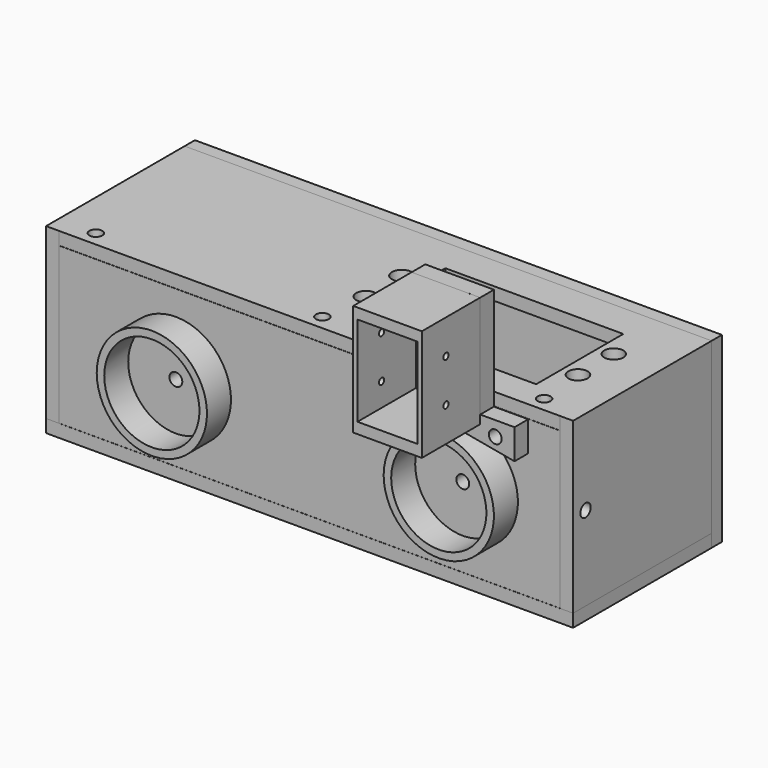
from build123d import *

# Parameters (mm, degrees)
SKETCH001_W             = 116.843163
SKETCH001_H             = 36.45658
PAD001_DEPTH            = 7
SKETCH003_R             = 12.85
SKETCH003_R_2           = 11.1
PAD002_DEPTH            = 7
SKETCH004_R             = 12.85
SKETCH004_R_2           = 11.1
PAD003_DEPTH            = 7
SKETCH032_R             = 1.25
HOLE_DEPTH              = 7
HOLE_TIPS_R             = 1.25
SKETCH033_R             = 1.25
HOLE012_DEPTH           = 7
HOLE012_TIPS_R          = 1.25
SKETCH034_R             = 1.25
HOLE013_DEPTH           = 7
HOLE013_TIPS_R          = 1.25
SKETCH035_R             = 1.25
HOLE014_DEPTH           = 7
HOLE014_TIPS_R          = 1.25
SKETCH036_R             = 1.5
HOLE015_DEPTH           = 25
SKETCH037_R             = 1.5
HOLE016_DEPTH           = 25
SKETCH038_R             = 1.1
HOLE017_DEPTH           = 8
HOLE017_TIPS_R          = 1.1
SKETCH043_R             = 1.1
HOLE019_DEPTH           = 5
HOLE019_TIPS_R          = 1.1
SKETCH_R                = 2.249595
SKETCH_R_2              = 2.22848
SKETCH_R_3              = 2.258087
SKETCH_R_4              = 2.309799
SKETCH_R_5              = 1.5
SKETCH_W                = 41.49
SKETCH_H                = 25.39
PAD_DEPTH               = 3
SKETCH009_W             = 40.385647
SKETCH009_H             = 39.5
SKETCH009_R             = 1.5
PAD004_DEPTH            = 3
SKETCH010_W             = 40.385768
SKETCH010_H             = 39.5
SKETCH010_R             = 1.5
PAD008_DEPTH            = 3
POCKET_DEPTH            = 5
SKETCH023_W             = 122.896782
SKETCH023_H             = 40.385559
PAD009_DEPTH            = 3
SKETCH020_W             = 122.886886
SKETCH020_H             = 42.499415
PAD010_DEPTH            = 3
SKETCH030_R             = 2
PAD011_DEPTH            = 8
SKETCH031_R             = 1.25
HOLE011_DEPTH           = 5
HOLE011_TIPS_R          = 1.25
SKETCH039_R             = 1.5
SKETCH039_R_2           = 3.5
PAD012_DEPTH            = 4
SKETCH040_W             = 16
SKETCH040_H             = 25.9999998155
SKETCH040_W_2           = 14
SKETCH040_H_2           = 21
PAD013_DEPTH            = 17
SKETCH041_R             = 0.75
HOLE020_DEPTH           = 25
BODY004_ROLL_ANGLE      = -90
BODY004_PLACEMENT_ANGLE = 180


with BuildPart() as obj1:
    # Sketch001 → Pad001 (new body)
    with BuildSketch(Plane(origin=(0, -10.218846, 0), x_dir=(-1, 0, 0), z_dir=(0, -1, 0))):
        with Locations((6.0817375, 17.253632)):
            Rectangle(SKETCH001_W, SKETCH001_H)
    extrude(amount=PAD001_DEPTH)

    # Sketch003 (on Face6 of Pad001) → Pad002 (join)
    with BuildSketch(Plane(origin=(0, -17.218846, 0), x_dir=(-1, 0, 0), z_dir=(0, -1, 0))):
        with Locations((-29.636889, 16.866961)):
            Circle(SKETCH003_R)
        with Locations((-29.636889, 16.866961)):
            Circle(SKETCH003_R_2, mode=Mode.SUBTRACT)
    extrude(amount=PAD002_DEPTH)

    # Sketch004 (on Face6 of Pad001) → Pad003 (join)
    with BuildSketch(Plane(origin=(0, -17.218846, 0), x_dir=(-1, 0, 0), z_dir=(0, -1, 0))):
        with Locations((37.273487, 17.633146)):
            Circle(SKETCH004_R)
        with Locations((37.273487, 17.633146)):
            Circle(SKETCH004_R_2, mode=Mode.SUBTRACT)
    extrude(amount=PAD003_DEPTH)

    # Sketch032 → Hole (cut)
    with BuildSketch(Plane(origin=(0, -10.218846, 0.974658), x_dir=(-1, 0, 0), z_dir=(0, 0, 1))):
        with Locations((-45.824009, 3.489712)):
            Circle(SKETCH032_R)
        with Locations((5.923986, 3.458072)):
            Circle(SKETCH032_R)
        with Locations((58.717724, 3.508158)):
            Circle(SKETCH032_R)
    extrude(amount=-HOLE_DEPTH, mode=Mode.SUBTRACT)

    # Hole tips → Hole tip 1 section 0
    with BuildSketch(Plane(origin=(0, -10.218846, -6.025342), x_dir=(-1, 0, 0), z_dir=(0, 0, 1)), mode=Mode.PRIVATE) as hole_tip_1_s0:
        with Locations((-45.824009, 3.489712)):
            Circle(HOLE_TIPS_R)
    loft([hole_tip_1_s0.sketch, Vertex(45.824009, -13.708558, -6.7764177738)], mode=Mode.SUBTRACT)

    # Hole tips → Hole tip 2 section 0
    with BuildSketch(Plane(origin=(0, -10.218846, -6.025342), x_dir=(-1, 0, 0), z_dir=(0, 0, 1)), mode=Mode.PRIVATE) as hole_tip_2_s0:
        with Locations((5.923986, 3.458072)):
            Circle(HOLE_TIPS_R)
    loft([hole_tip_2_s0.sketch, Vertex(-5.923986, -13.676918, -6.7764177738)], mode=Mode.SUBTRACT)

    # Hole tips → Hole tip 3 section 0
    with BuildSketch(Plane(origin=(0, -10.218846, -6.025342), x_dir=(-1, 0, 0), z_dir=(0, 0, 1)), mode=Mode.PRIVATE) as hole_tip_3_s0:
        with Locations((58.717724, 3.508158)):
            Circle(HOLE_TIPS_R)
    loft([hole_tip_3_s0.sketch, Vertex(-58.717724, -13.727004, -6.7764177738)], mode=Mode.SUBTRACT)

    # Sketch033 (on Face2 of Hole) → Hole012 (cut)
    with BuildSketch(Plane(origin=(52.339844, -10.218846, 0), x_dir=(0, 0, 1), z_dir=(1, 0, 0))):
        with Locations((-29.418951, 3.163783)):
            Circle(SKETCH033_R)
    extrude(amount=-HOLE012_DEPTH, mode=Mode.SUBTRACT)

    # Hole012 tips → Hole012 tip 1 section 0
    with BuildSketch(Plane(origin=(45.339844, -10.218846, 0), x_dir=(0, 0, 1), z_dir=(1, 0, 0)), mode=Mode.PRIVATE) as hole012_tip_1_s0:
        with Locations((-29.418951, 3.163783)):
            Circle(HOLE012_TIPS_R)
    loft([hole012_tip_1_s0.sketch, Vertex(44.5887682262, -13.382629, -29.418951)], mode=Mode.SUBTRACT)

    # Sketch034 (on Face3 of Hole012) → Hole013 (cut)
    with BuildSketch(Plane(origin=(-64.503319, -10.218846, 0), x_dir=(0, 0, -1), z_dir=(-1, 0, 0))):
        with Locations((29.470757, 3.105034)):
            Circle(SKETCH034_R)
    extrude(amount=-HOLE013_DEPTH, mode=Mode.SUBTRACT)

    # Hole013 tips → Hole013 tip 1 section 0
    with BuildSketch(Plane(origin=(-57.503319, -10.218846, 0), x_dir=(0, 0, -1), z_dir=(-1, 0, 0)), mode=Mode.PRIVATE) as hole013_tip_1_s0:
        with Locations((29.470757, 3.105034)):
            Circle(HOLE013_TIPS_R)
    loft([hole013_tip_1_s0.sketch, Vertex(-56.7522432262, -13.32388, -29.470757)], mode=Mode.SUBTRACT)

    # Sketch035 (on Face1 of Hole013) → Hole014 (cut)
    with BuildSketch(Plane(origin=(0, -10.218846, -35.481922), x_dir=(1, 0, 0), z_dir=(0, 0, -1))):
        with Locations((-52.105606, 3.379926)):
            Circle(SKETCH035_R)
        with Locations((44.250431, 3.777158)):
            Circle(SKETCH035_R)
    extrude(amount=-HOLE014_DEPTH, mode=Mode.SUBTRACT)

    # Hole014 tips → Hole014 tip 1 section 0
    with BuildSketch(Plane(origin=(0, -10.218846, -28.481922), x_dir=(1, 0, 0), z_dir=(0, 0, -1)), mode=Mode.PRIVATE) as hole014_tip_1_s0:
        with Locations((-52.105606, 3.379926)):
            Circle(HOLE014_TIPS_R)
    loft([hole014_tip_1_s0.sketch, Vertex(-52.105606, -13.598772, -27.7308462262)], mode=Mode.SUBTRACT)

    # Hole014 tips → Hole014 tip 2 section 0
    with BuildSketch(Plane(origin=(0, -10.218846, -28.481922), x_dir=(1, 0, 0), z_dir=(0, 0, -1)), mode=Mode.PRIVATE) as hole014_tip_2_s0:
        with Locations((44.250431, 3.777158)):
            Circle(HOLE014_TIPS_R)
    loft([hole014_tip_2_s0.sketch, Vertex(44.250431, -13.996004, -27.7308462262)], mode=Mode.SUBTRACT)

    # Sketch036 (on Face30 of Hole014) → Hole015 (cut)
    with BuildSketch(Plane(origin=(0, -17.218846, 0), x_dir=(-1, 0, 0), z_dir=(0, -1, 0))):
        with Locations((-29.64061, 16.871185)):
            Circle(SKETCH036_R)
    extrude(amount=-HOLE015_DEPTH, mode=Mode.SUBTRACT)

    # Sketch037 (on Face31 of Hole015) → Hole016 (cut)
    with BuildSketch(Plane(origin=(0, -17.218846, 0), x_dir=(-1, 0, 0), z_dir=(0, -1, 0))):
        with Locations((37.272316, 17.637047)):
            Circle(SKETCH037_R)
    extrude(amount=-HOLE016_DEPTH, mode=Mode.SUBTRACT)

    # Sketch038 (on Face2 of Hole016) → Hole017 (cut)
    with BuildSketch(Plane(origin=(52.339844, -10.218846, 0), x_dir=(0, 0, 1), z_dir=(1, 0, 0))):
        with Locations((-15.891226, 3.392958)):
            Circle(SKETCH038_R)
    extrude(amount=-HOLE017_DEPTH, mode=Mode.SUBTRACT)

    # Hole017 tips → Hole017 tip 1 section 0
    with BuildSketch(Plane(origin=(44.339844, -10.218846, 0), x_dir=(0, 0, 1), z_dir=(1, 0, 0)), mode=Mode.PRIVATE) as hole017_tip_1_s0:
        with Locations((-15.891226, 3.392958)):
            Circle(HOLE017_TIPS_R)
    loft([hole017_tip_1_s0.sketch, Vertex(43.6788973191, -13.611804, -15.891226)], mode=Mode.SUBTRACT)

    # Sketch043 (on Face4 of Hole017) → Hole019 (cut)
    with BuildSketch(Plane(origin=(0, -17.218846, 0), x_dir=(-1, 0, 0), z_dir=(0, -1, 0))):
        with Locations((-40.483753, 2.406836)):
            Circle(SKETCH043_R)
        with Locations((-19.445002, 2.436015)):
            Circle(SKETCH043_R)
    extrude(amount=-HOLE019_DEPTH, mode=Mode.SUBTRACT)

    # Hole019 tips → Hole019 tip 1 section 0
    with BuildSketch(Plane(origin=(0, -12.218846, 0), x_dir=(-1, 0, 0), z_dir=(0, -1, 0)), mode=Mode.PRIVATE) as hole019_tip_1_s0:
        with Locations((-40.483753, 2.406836)):
            Circle(HOLE019_TIPS_R)
    loft([hole019_tip_1_s0.sketch, Vertex(40.483753, -11.5578993191, -2.406836)], mode=Mode.SUBTRACT)

    # Hole019 tips → Hole019 tip 2 section 0
    with BuildSketch(Plane(origin=(0, -12.218846, 0), x_dir=(-1, 0, 0), z_dir=(0, -1, 0)), mode=Mode.PRIVATE) as hole019_tip_2_s0:
        with Locations((-19.445002, 2.436015)):
            Circle(HOLE019_TIPS_R)
    loft([hole019_tip_2_s0.sketch, Vertex(19.445002, -11.5578993191, -2.436015)], mode=Mode.SUBTRACT)


with BuildPart() as obj2:
    # Sketch → Pad (new body)
    with BuildSketch(Plane(origin=(40, -7, 4), x_dir=(-1, 0, 0), z_dir=(0, 0, 1))):
        Polygon((104.534596, -30.1692200457), (104.534596, 10.217136), (-12.364227, 10.217136), (-12.364227, -22.1692200457), (-12.364227, -30.1692200457), align=None)
        with Locations((-4.726713, -4.483372)):
            Circle(SKETCH_R, mode=Mode.SUBTRACT)
        with Locations((-4.685899, -14.969987)):
            Circle(SKETCH_R_2, mode=Mode.SUBTRACT)
        with Locations((44.693672, -4.473402)):
            Circle(SKETCH_R_3, mode=Mode.SUBTRACT)
        with Locations((44.743439, -14.989571)):
            Circle(SKETCH_R_4, mode=Mode.SUBTRACT)
        with Locations((-5.8101676356, 6.7237619655)):
            Circle(SKETCH_R_5, mode=Mode.SUBTRACT)
        with Locations((45.9247603644, 6.7067949655)):
            Circle(SKETCH_R_5, mode=Mode.SUBTRACT)
        with Locations((98.712791, 6.731614)):
            Circle(SKETCH_R_5, mode=Mode.SUBTRACT)
        with Locations((19.641108, -9.5341270457)):
            Rectangle(SKETCH_W, SKETCH_H, mode=Mode.SUBTRACT)
    extrude(amount=-PAD_DEPTH)

    # Sketch009 (on Face1 of Pad) → Pad004 (join)
    with BuildSketch(Plane(origin=(-64.534596, -7, 4), x_dir=(0, -1, 0), z_dir=(-1, 0, 0))):
        with Locations((-9.9763925, -19.75)):
            Rectangle(SKETCH009_W, SKETCH009_H)
        with Locations((6.7149868064, -19.0152890589)):
            Circle(SKETCH009_R, mode=Mode.SUBTRACT)
    extrude(amount=PAD004_DEPTH)

    # Sketch010 (on Face9 of Pad004) → Pad008 (join)
    with BuildSketch(Plane(origin=(52.364227, -7, 4), x_dir=(0, 1, 0), z_dir=(1, 0, 0))):
        with Locations((9.971603, -19.75)):
            Rectangle(SKETCH010_W, SKETCH010_H)
        with Locations((-6.604023, -19.849838)):
            Circle(SKETCH010_R, mode=Mode.SUBTRACT)
    extrude(amount=PAD008_DEPTH)

    # Sketch012 (on Face24 of Pad008) → Pocket (cut)
    with BuildSketch(Plane(origin=(-67.534596, -7, 1.5), x_dir=(0, -1, 0), z_dir=(-1, 0, 0))):
        with BuildLine():
            ThreePointArc((-18.2780763358, -13.0761897431), (-23.0280763358, -8.3261897431), (-27.7780763358, -13.0761897431))
            Line((-27.7780763358, -13.0761897431), (-27.7780763358, -25.0761897431))
            ThreePointArc((-27.7780763358, -25.0761897431), (-23.0280763358, -29.8261897431), (-18.2780763358, -25.0761897431))
            Line((-18.2780763358, -25.0761897431), (-18.2780763358, -13.0761897431))
        make_face()
    extrude(amount=-POCKET_DEPTH, mode=Mode.SUBTRACT)


with BuildPart() as obj3:
    # Sketch023 → Pad009 (new body)
    with BuildSketch(Plane(origin=(40, -7, -35.5), x_dir=(-1, 0, 0), z_dir=(0, 0, -1))):
        with Locations((46.08585, 9.9763545)):
            Rectangle(SKETCH023_W, SKETCH023_H)
    extrude(amount=PAD009_DEPTH)


with BuildPart() as obj4:
    # Sketch020 → Pad010 (new body)
    with BuildSketch(Plane(origin=(40, 23.169216, 4), x_dir=(-1, 0, 0), z_dir=(0, 1, 0))):
        with Locations((46.091649, -21.2497075)):
            Rectangle(SKETCH020_W, SKETCH020_H)
    extrude(amount=PAD010_DEPTH)

    # Sketch030 → Pad011 (join)
    with BuildSketch(Plane(origin=(40, 23.169216, 4), x_dir=(-1, 0, 0), z_dir=(0, -1, 0))):
        with Locations((98.6019900058, 33.1054809136)):
            Circle(SKETCH030_R)
        with Locations((98.5991337837, 10.105481091)):
            Circle(SKETCH030_R)
        with Locations((51.48814, 33.257862)):
            Circle(SKETCH030_R)
        with Locations((51.599381678, 10.258131017)):
            Circle(SKETCH030_R)
    extrude(amount=PAD011_DEPTH)

    # Sketch031 (on Face12 of Pad011) → Hole011 (cut)
    with BuildSketch(Plane(origin=(40, 15.169216, 4), x_dir=(-1, 0, 0), z_dir=(0, -1, 0))):
        with Locations((51.465195, 33.24612)):
            Circle(SKETCH031_R)
        with Locations((98.637901, 33.145649)):
            Circle(SKETCH031_R)
        with Locations((98.588951, 10.158812)):
            Circle(SKETCH031_R)
        with Locations((51.604584, 10.312801)):
            Circle(SKETCH031_R)
    extrude(amount=-HOLE011_DEPTH, mode=Mode.SUBTRACT)

    # Hole011 tips → Hole011 tip 1 section 0
    with BuildSketch(Plane(origin=(40, 20.169216, 4), x_dir=(-1, 0, 0), z_dir=(0, -1, 0)), mode=Mode.PRIVATE) as hole011_tip_1_s0:
        with Locations((51.465195, 33.24612)):
            Circle(HOLE011_TIPS_R)
    loft([hole011_tip_1_s0.sketch, Vertex(-11.465195, 20.9202917738, -29.24612)], mode=Mode.SUBTRACT)

    # Hole011 tips → Hole011 tip 2 section 0
    with BuildSketch(Plane(origin=(40, 20.169216, 4), x_dir=(-1, 0, 0), z_dir=(0, -1, 0)), mode=Mode.PRIVATE) as hole011_tip_2_s0:
        with Locations((98.637901, 33.145649)):
            Circle(HOLE011_TIPS_R)
    loft([hole011_tip_2_s0.sketch, Vertex(-58.637901, 20.9202917738, -29.145649)], mode=Mode.SUBTRACT)

    # Hole011 tips → Hole011 tip 3 section 0
    with BuildSketch(Plane(origin=(40, 20.169216, 4), x_dir=(-1, 0, 0), z_dir=(0, -1, 0)), mode=Mode.PRIVATE) as hole011_tip_3_s0:
        with Locations((98.588951, 10.158812)):
            Circle(HOLE011_TIPS_R)
    loft([hole011_tip_3_s0.sketch, Vertex(-58.588951, 20.9202917738, -6.158812)], mode=Mode.SUBTRACT)

    # Hole011 tips → Hole011 tip 4 section 0
    with BuildSketch(Plane(origin=(40, 20.169216, 4), x_dir=(-1, 0, 0), z_dir=(0, -1, 0)), mode=Mode.PRIVATE) as hole011_tip_4_s0:
        with Locations((51.604584, 10.312801)):
            Circle(HOLE011_TIPS_R)
    loft([hole011_tip_4_s0.sketch, Vertex(-11.604584, 20.9202917738, -6.312801)], mode=Mode.SUBTRACT)


with BuildPart() as stopper:
    # Sketch039 → Pad012 (new body)
    with BuildSketch(Plane.XY):
        Polygon((15.5352392917, -13.3625546243), (15.5352392917, -37.3625546243), (-0.4647607083, -37.3625546243), (-0.4647607083, -13.3625546243), (-8.4647607083, -13.3625546243), (-8.4647607083, -6.3625546243), (6.474253, -9.074879), (23.5352392917, -6.3625546243), (23.5352392917, -13.3625546243), align=None)
        with Locations((-3.968124, -9.945079)):
            Circle(SKETCH039_R, mode=Mode.SUBTRACT)
        with Locations((17.074846, -9.945079)):
            Circle(SKETCH039_R, mode=Mode.SUBTRACT)
        with Locations((7.555574, -21.30539)):
            Circle(SKETCH039_R_2, mode=Mode.SUBTRACT)
    extrude(amount=PAD012_DEPTH)

    # Sketch040 (on Face14 of Pad012) → Pad013 (join)
    with BuildSketch(Plane(origin=(0, -20, 4), x_dir=(1, 0, 0), z_dir=(0, 0, 1))):
        with Locations((7.542766, -4.3616819078)):
            Rectangle(SKETCH040_W, SKETCH040_H)
        with Locations((7.5521065877, -4.4023297125)):
            Rectangle(SKETCH040_W_2, SKETCH040_H_2, mode=Mode.SUBTRACT)
    extrude(amount=PAD013_DEPTH)

    # Sketch041 (on Face19 of Pad013) → Hole020 (cut)
    with BuildSketch(Plane(origin=(-0.457234, -2, 0), x_dir=(0, -1, 0), z_dir=(-1, 0, 0))):
        with Locations((17.366084, 13.979596)):
            Circle(SKETCH041_R)
        with Locations((27.3660831111, 13.9753797048)):
            Circle(SKETCH041_R)
    extrude(amount=-HOLE020_DEPTH, mode=Mode.SUBTRACT)


with BuildPart() as stopper_1:
    # Body004 roll: moved
    add(stopper.part.rotate(Axis((0, 0, 0), (1, 0, 0)), BODY004_ROLL_ANGLE))


with BuildPart() as stopper_2:
    # Body004 placement: moved
    add(stopper_1.part.moved(Location((36.5, -17.3, -12.4))).rotate(Axis((36.5, -17.3, -12.4), (0, 0, 1)), BODY004_PLACEMENT_ANGLE))


solid = Compound([obj1.part, obj2.part, obj3.part, obj4.part, stopper_2.part])
